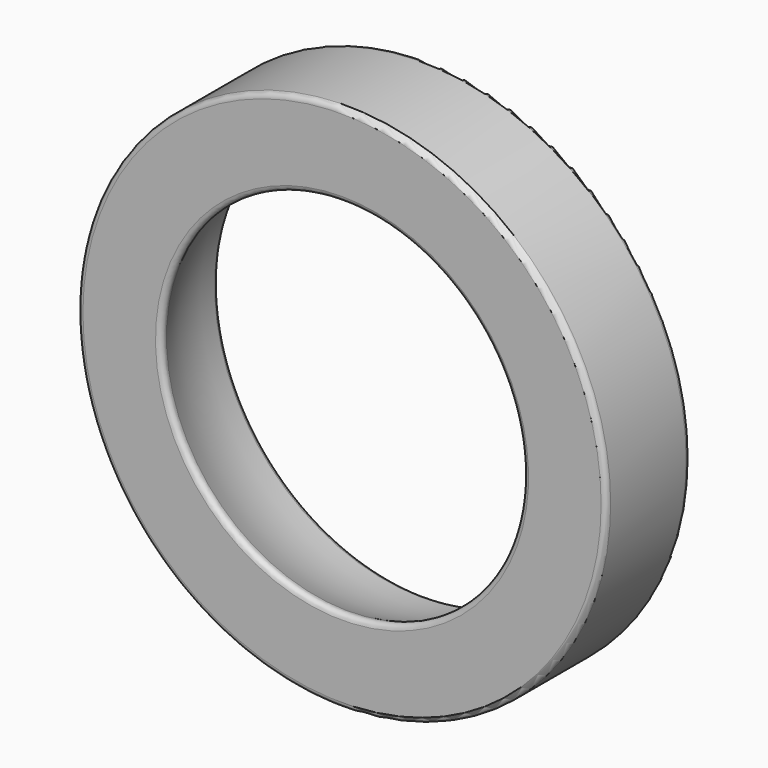
from build123d import *

# Parameters (mm, degrees)
F1_R     = 12.6746
F2_DEPTH = 5.0292
F5_R     = 0.254


with BuildPart() as f2:
    # F1 (on offset) → F2 (new body)
    with BuildSketch(Plane.XZ.offset(0.127)):
        Circle(F1_R)
    extrude(amount=F2_DEPTH)

    # F3 (on Right) → F4 (revolve, cut)
    with BuildSketch(Plane.YZ):
        with BuildLine():
            Line((-9.9441, 0), (0, 0))
            Line((0, 0), (9.9441, 0))
            ThreePointArc((9.9441, 0), (0, 9.9441), (-9.9441, 0))
        make_face()
    revolve(axis=Axis((0, 4.97205, 0), (0, 1, 0)), mode=Mode.SUBTRACT)

    # F5
    f5_edges = [f2.edges().sort_by_distance(p)[0] for p in [
        (0, -5.1562, -8.502866),
        (-12.6746, -5.1562, 0),
        (-12.6746, -0.127, 0),
        (0, -0.127, -9.943289),
    ]]
    fillet(f5_edges, radius=F5_R)


solid = f2.part
